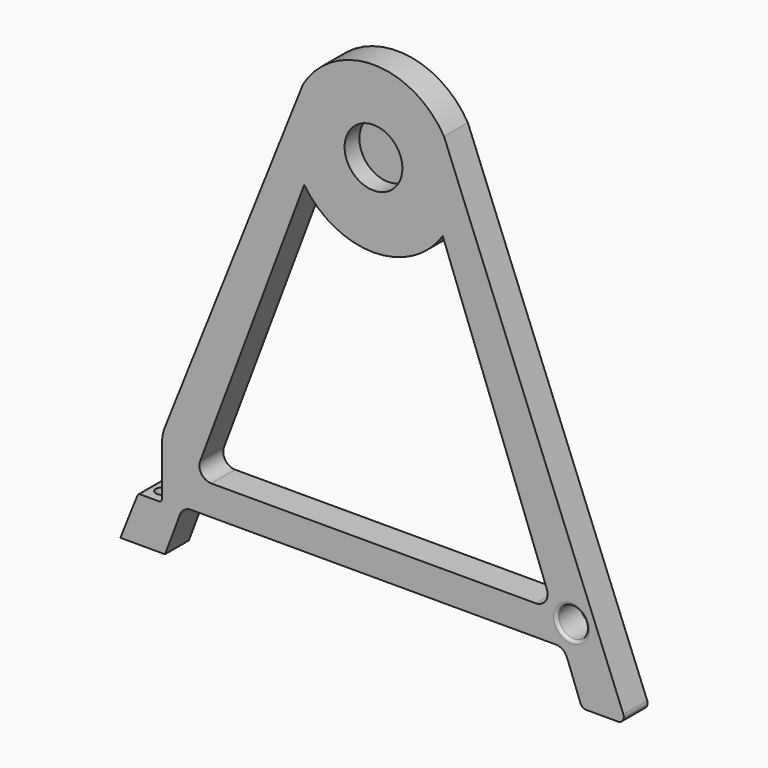
from build123d import *

# Parameters (mm, degrees)
PAD_DEPTH       = 10
FILLET_R        = 4
SKETCH001_R     = 9.7
POCKET_DEPTH    = 6.2
SKETCH002_R     = 2.1
POCKET001_DEPTH = 167.501
SKETCH003_W     = 26
SKETCH003_H     = 25
POCKET002_DEPTH = 10.001
SKETCH004_R     = 5
POCKET003_DEPTH = 10.001
FILLET001_R     = 2
FILLET002_R     = 1
FILLET003_R     = 13
FILLET004_R     = 1


with BuildPart() as part:
    # Sketch → Pad (new body)
    with BuildSketch(Plane.XZ):
        with BuildLine():
            ThreePointArc((23.669601, 154), (0, 167.5), (-23.669601, 154))
            Line((-23.669601, 154), (-85, 0))
            Line((-85, 0), (-70, 0))
            Line((-70, 0), (-63.987018, 16))
            Line((-63.987018, 16), (63.987018, 16))
            Line((63.987018, 16), (70, 0))
            Line((70, 0), (85, 0))
            Line((85, 0), (23.669601, 154))
        make_face()
        with BuildLine():
            Line((-60.228905, 26), (60.228905, 26))
            Line((23.25, 124.397516), (60.228905, 26))
            ThreePointArc((-23.25, 124.397516), (0, 112), (23.25, 124.397516))
            Line((-60.228905, 26), (-23.25, 124.397516))
        make_face(mode=Mode.SUBTRACT)
    extrude(amount=PAD_DEPTH)

    # Fillet
    fillet_edges = [part.edges().sort_by_distance(p)[0] for p in [
        (-63.987018, -5, 16),
        (-60.228905, -5, 26),
        (60.228905, -5, 26),
        (63.987018, -5, 16),
    ]]
    fillet(fillet_edges, radius=FILLET_R)

    # Sketch001 (on Face5 of Fillet) → Pocket (cut)
    with BuildSketch(Plane.XZ.offset(10)):
        with Locations((0, 140)):
            Circle(SKETCH001_R)
    extrude(amount=-POCKET_DEPTH, mode=Mode.SUBTRACT)

    # Sketch002 (on Face4 of Pocket) → Pocket001 (cut, through all)
    with BuildSketch(Plane(origin=(0, 0, 0), x_dir=(1, 0, 0), z_dir=(0, 0, -1))):
        with Locations((-75, 5)):
            Circle(SKETCH002_R)
    extrude(amount=-POCKET001_DEPTH, mode=Mode.SUBTRACT)

    # Sketch003 (on Face5 of Pocket001) → Pocket002 (cut, through all)
    with BuildSketch(Plane.XZ.offset(10)):
        with Locations((-84, 27.5)):
            Rectangle(SKETCH003_W, SKETCH003_H)
    extrude(amount=-POCKET002_DEPTH, mode=Mode.SUBTRACT)

    # Sketch004 → Pocket003 (cut, through all)
    with BuildSketch(Plane.XZ.offset(10)):
        with Locations((66.5, 24)):
            Circle(SKETCH004_R)
    extrude(amount=-POCKET003_DEPTH, mode=Mode.SUBTRACT)

    # Fillet001
    fillet001_edges = [part.edges().sort_by_distance(p)[0] for p in [
        (85, -5, 0),
        (70, -5, 0),
    ]]
    fillet(fillet001_edges, radius=FILLET001_R)

    # Fillet002
    fillet002_edges = [part.edges().sort_by_distance(p)[0] for p in [
        (61.5, -10, 24),
    ]]
    fillet(fillet002_edges, radius=FILLET002_R)

    # Fillet003
    fillet003_edges = [part.edges().sort_by_distance(p)[0] for p in [
        (-71, -5, 35.153856),
    ]]
    fillet(fillet003_edges, radius=FILLET003_R)

    # Fillet004
    fillet004_edges = [part.edges().sort_by_distance(p)[0] for p in [
        (-79.02626, -5, 15),
        (-71, -5, 15),
    ]]
    fillet(fillet004_edges, radius=FILLET004_R)


solid = part.part
